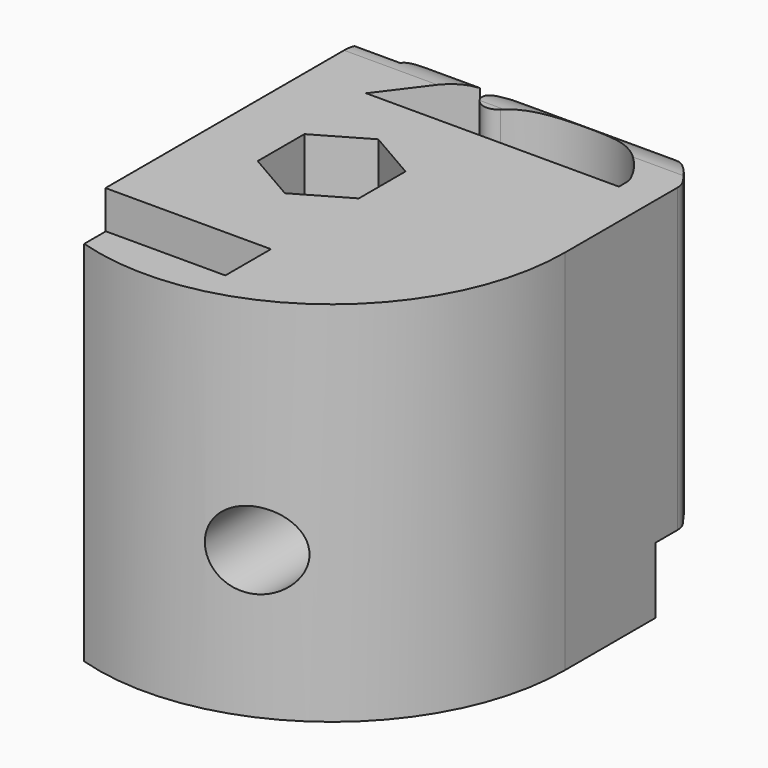
from build123d import *

# Parameters (mm, degrees)
SKETCH016_R     = 2.4
PAD017_DEPTH    = 20
SKETCH020_W     = 2.5
SKETCH020_H     = 16.93
PAD021_DEPTH    = 18.3
POCKET002_DEPTH = 20
POCKET004_DEPTH = 20.001
PAD029_DEPTH    = 16.4
POCKET013_DEPTH = 18.95102
SKETCH036_R     = 2.1
POCKET014_DEPTH = 13.861
SKETCH037_R     = 2.1
POCKET015_DEPTH = 5.501
SKETCH045_R     = 0.9
POCKET016_DEPTH = 18.861


with BuildPart() as corner_front_left:
    # Sketch016 → Pad017 (new body)
    with BuildSketch(Plane.XY):
        with BuildLine():
            ThreePointArc((-121.92, -35.56), (-116.758725, -45.780451), (-105.46998, -47.693728))
            Line((-105.46998, -46.223728), (-105.46998, -47.693728))
            Line((-111.96998, -46.223728), (-105.46998, -46.223728))
            Line((-111.96998, -43.123728), (-111.96998, -46.223728))
            Line((-105.46998, -43.123728), (-111.96998, -43.123728))
            Line((-105.46998, -31.693728), (-105.46998, -43.123728))
            Line((-105.46998, -31.693728), (-105.46998, -26.193728))
            ThreePointArc((-105.46998, -26.193728), (-105.669987, -25.66457), (-106.17, -25.4))
            Line((-106.17, -25.4), (-121.92, -25.4))
            Line((-121.92, -25.4), (-121.92, -35.56))
        make_face()
        with Locations((-109.22, -35.56)):
            Circle(SKETCH016_R, mode=Mode.SUBTRACT)
    extrude(amount=PAD017_DEPTH)

    # Sketch020 (on Face13 of Pad017) → Pad021 (join)
    with BuildSketch(Plane.XY.offset(20)):
        with Locations((-104.21998, -34.658728)):
            Rectangle(SKETCH020_W, SKETCH020_H)
    extrude(amount=-PAD021_DEPTH)

    # Sketch028 (on Face15 of Pad021) → Pocket002 (cut)
    with BuildSketch(Plane.XY.offset(20)):
        Polygon((-106.47, -37.147713), (-106.47, -33.972287), (-109.22, -32.384574), (-111.97, -33.972287), (-111.97, -37.147713), (-109.22, -38.735426), align=None)
    extrude(amount=-POCKET002_DEPTH, mode=Mode.SUBTRACT)

    # Sketch031 (on Face19 of Pocket002) → Pocket004 (cut, through all)
    with BuildSketch(Plane.XY.offset(20)):
        Polygon((-121.92, -25.4), (-109.17, -25.4), (-106.17, -29.4), (-121.92, -29.4), align=None)
    extrude(amount=-POCKET004_DEPTH, mode=Mode.SUBTRACT)

    # Sketch032 (on Face21 of Pocket004) → Pad029 (join)
    with BuildSketch(Plane.XY.offset(20)):
        with BuildLine():
            Line((-119.92, -29.4), (-119.92, -28.9))
            ThreePointArc((-119.827265, -28.47944), (-119.896541, -28.684669), (-119.92, -28.9))
            ThreePointArc((-111.555319, -27.001504), (-116.075974, -25.587421), (-119.827265, -28.47944))
            ThreePointArc((-111.555319, -27.001504), (-110.411621, -26.986272), (-110.452117, -25.843189))
            ThreePointArc((-110.452117, -25.843189), (-116.463348, -23.966517), (-121.764907, -27.365086))
            ThreePointArc((-121.764907, -27.365086), (-121.880444, -27.621528), (-121.92, -27.9))
            Line((-121.92, -27.9), (-121.92, -29.4))
            Line((-121.92, -29.4), (-121.92, -30.4))
            Line((-121.92, -30.4), (-119.92, -30.4))
            Line((-119.92, -30.4), (-119.92, -29.4))
        make_face()
    extrude(amount=-PAD029_DEPTH)

    # Sketch034 (on Plane of DatumPlane001) → Pocket013 (cut, through all)
    with BuildSketch(Plane(origin=(-121.92, 0, 0), x_dir=(0, -1, 0), z_dir=(-1, 0, 0))):
        with BuildLine():
            Line((26.9, 20), (26.9, 21))
            Line((26.9, 21), (22.9, 21))
            Line((22.9, 21), (22.9, 17))
            Line((22.9, 17), (23.9, 17))
            ThreePointArc((26.9, 20), (24.77868, 19.12132), (23.9, 17))
        make_face()
    extrude(amount=-POCKET013_DEPTH, mode=Mode.SUBTRACT)

    # Sketch036 (on Face8 of Pocket013) → Pocket014 (cut, through all)
    with BuildSketch(Plane(origin=(0, -34.4, 0), x_dir=(-1, 0, 0), z_dir=(0, 1, 0))):
        with Locations((114.3, 8)):
            Circle(SKETCH036_R)
    extrude(amount=-POCKET014_DEPTH, mode=Mode.SUBTRACT)

    # Sketch037 (on Face8 of Pocket014) → Pocket015 (cut, through all)
    with BuildSketch(Plane(origin=(0, -29.4, 0), x_dir=(-1, 0, 0), z_dir=(0, 1, 0))):
        with Locations((114.3, 8)):
            Circle(SKETCH037_R)
    extrude(amount=POCKET015_DEPTH, mode=Mode.SUBTRACT)

    # Sketch045 (on Face8 of Pocket015) → Pocket016 (cut, through all)
    with BuildSketch(Plane(origin=(0, -29.4, 0), x_dir=(-1, 0, 0), z_dir=(0, 1, 0))):
        with Locations((114.3, 8)):
            Circle(SKETCH045_R)
    extrude(amount=-POCKET016_DEPTH, mode=Mode.SUBTRACT)


with BuildPart() as corner_front_left_1:
    # Body012 placement: moved
    add(corner_front_left.part.moved(Location((0, 19, 0))))


with BuildPart() as corner_front_right_mirrored:
    # mirror: instance of Corner_front_left
    add(corner_front_left_1.part.mirror(Plane(origin=(1e-06, -17.077076, 10), x_dir=(0, -1, 0), z_dir=(1, 0, 0))))


solid = corner_front_right_mirrored.part
